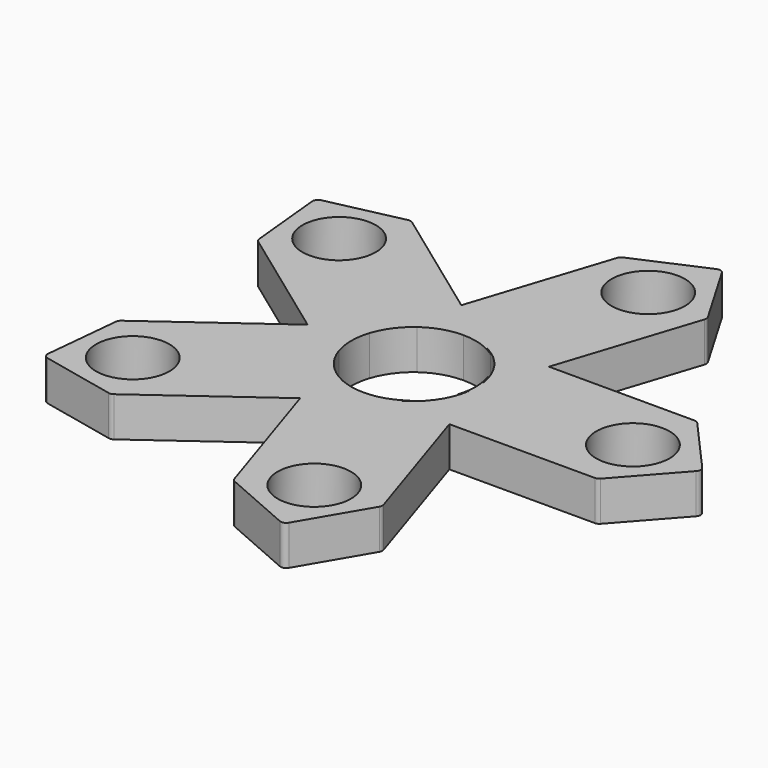
from build123d import *

# Parameters (mm, degrees)
F0_R     = 6.45
F1_DEPTH = 7


with BuildPart() as f1:
    # F0 (on Top) → F1 (new body)
    with BuildSketch(Plane.XY):
        with BuildLine():
            ThreePointArc((4.8420579254, 10.0159922148), (9.0003140624, 6.5391109318), (11.0220528498, 1.5099589323))
            Line((11.0220528498, 1.5099589323), (11.5126682474, 0))
            Line((11.5126682474, 0), (15.0702783864, 10.9491981566))
            Line((15.0702783864, 10.9491981566), (3.557610139, 10.9491981566))
            Line((3.557610139, 10.9491981566), (4.8420579254, 10.0159922148))
        make_face()
        with BuildLine():
            Line((15.0702783864, 10.9491981566), (11.5126682474, 0))
            Line((11.5126682474, 0), (15.0702783864, -10.9491981566))
            Line((15.0702783864, -10.9491981566), (40.6806125224, -10.9491981566))
            ThreePointArc((40.6806125224, -10.9491981566), (41.0902684989, -10.8614382461), (41.4280217317, -10.6135621185))
            Line((41.4280217317, -10.6135621185), (50.2717563602, -0.6643639619))
            ThreePointArc((50.2717563602, -0.6643639619), (50.5243471509, 0), (50.2717563602, 0.6643639619))
            Line((50.2717563602, 0.6643639619), (41.4280217317, 10.6135621185))
            ThreePointArc((41.4280217317, 10.6135621185), (41.0902684989, 10.8614382461), (40.6806125224, 10.9491981566))
            Line((40.6806125224, 10.9491981566), (15.0702783864, 10.9491981566))
        make_face()
        with Locations((38.6029407382, 0)):
            Circle(F0_R, mode=Mode.SUBTRACT)
        with BuildLine():
            Line((-26.4755296714, -32.7695514784), (-5.7563341237, -17.7161747669))
            Line((-5.7563341237, -17.7161747669), (-9.3139442627, -6.7669766103))
            Line((-9.3139442627, -6.7669766103), (-18.6278885254, 0))
            Line((-18.6278885254, 0), (-39.3470840731, -15.0533767114))
            ThreePointArc((-39.3470840731, -15.0533767114), (-39.6269187388, -15.3651657119), (-39.7544689118, -15.7642280808))
            Line((-39.7544689118, -15.7642280808), (-41.0612085714, -29.0115152597))
            ThreePointArc((-41.0612085714, -29.0115152597), (-40.8750554748, -29.697466137), (-40.2802018935, -30.086478731))
            Line((-40.2802018935, -30.086478731), (-27.2774783367, -32.9373323303))
            ThreePointArc((-27.2774783367, -32.9373323303), (-26.8585322992, -32.9393419609), (-26.4755296714, -32.7695514784))
        make_face()
        with Locations((-31.2304350901, -22.690239261)):
            Circle(F0_R, mode=Mode.SUBTRACT)
        with BuildLine():
            Line((-5.7563341237, 17.7161747669), (3.557610139, 10.9491981566))
            Line((3.557610139, 10.9491981566), (15.0702783864, 10.9491981566))
            Line((15.0702783864, 10.9491981566), (22.9843068661, 35.3060733212))
            ThreePointArc((22.9843068661, 35.3060733212), (23.0274328899, 35.7227986108), (22.8960601724, 36.1206189597))
            Line((22.8960601724, 36.1206189597), (16.1666747276, 47.6059817172))
            ThreePointArc((16.1666747276, 47.6059817172), (15.6128818993, 48.0515095894), (14.9029793772, 48.0165812266))
            Line((14.9029793772, 48.0165812266), (2.7078653445, 42.6801610906))
            ThreePointArc((2.7078653445, 42.6801610906), (2.3677496493, 42.4355366136), (2.157694356, 42.0730499315))
            Line((2.157694356, 42.0730499315), (-5.7563341237, 17.7161747669))
        make_face()
        with Locations((11.928964721, 36.7135783372)):
            Circle(F0_R, mode=Mode.SUBTRACT)
        with BuildLine():
            ThreePointArc((4.8420579254, 10.0159922148), (9.0003140624, 6.5391109318), (11.0220528498, 1.5099589323))
            Line((11.0220528498, 1.5099589323), (11.5126682474, 0))
            Line((11.5126682474, 0), (15.0702783864, 10.9491981566))
            Line((15.0702783864, 10.9491981566), (3.557610139, 10.9491981566))
            Line((3.557610139, 10.9491981566), (4.8420579254, 10.0159922148))
        make_face()
        with BuildLine():
            ThreePointArc((1.9699453616, 10.9491981566), (3.4378140624, 10.5805037438), (4.8420579254, 10.0159922148))
            Line((4.8420579254, 10.0159922148), (3.557610139, 10.9491981566))
            Line((3.557610139, 10.9491981566), (1.9699453616, 10.9491981566))
        make_face()
        with BuildLine():
            ThreePointArc((-8.0294964764, 7.7001825521), (-3.4378140624, 10.5805037438), (1.9699453616, 10.9491981566))
            Line((1.9699453616, 10.9491981566), (3.557610139, 10.9491981566))
            Line((3.557610139, 10.9491981566), (-5.7563341237, 17.7161747669))
            Line((-5.7563341237, 17.7161747669), (-9.3139442627, 6.7669766103))
            Line((-9.3139442627, 6.7669766103), (-8.0294964764, 7.7001825521))
        make_face()
        with BuildLine():
            ThreePointArc((-9.8045596603, 5.257017678), (-9.0003140624, 6.5391109318), (-8.0294964764, 7.7001825521))
            Line((-8.0294964764, 7.7001825521), (-9.3139442627, 6.7669766103))
            Line((-9.3139442627, 6.7669766103), (-9.8045596603, 5.257017678))
        make_face()
        with BuildLine():
            ThreePointArc((-9.8045596603, -5.257017678), (-11.125, 0), (-9.8045596603, 5.257017678))
            Line((-9.8045596603, 5.257017678), (-9.3139442627, 6.7669766103))
            Line((-9.3139442627, 6.7669766103), (-18.6278885254, 0))
            Line((-18.6278885254, 0), (-9.3139442627, -6.7669766103))
            Line((-9.3139442627, -6.7669766103), (-9.8045596603, -5.257017678))
        make_face()
        with BuildLine():
            Line((-9.3139442627, -6.7669766103), (-8.0294964764, -7.7001825521))
            ThreePointArc((-8.0294964764, -7.7001825521), (-9.0003140624, -6.5391109318), (-9.8045596603, -5.257017678))
            Line((-9.8045596603, -5.257017678), (-9.3139442627, -6.7669766103))
        make_face()
        with BuildLine():
            Line((3.557610139, -10.9491981566), (1.9699453616, -10.9491981566))
            ThreePointArc((1.9699453616, -10.9491981566), (-3.4378140624, -10.5805037438), (-8.0294964764, -7.7001825521))
            Line((-8.0294964764, -7.7001825521), (-9.3139442627, -6.7669766103))
            Line((-9.3139442627, -6.7669766103), (-5.7563341237, -17.7161747669))
            Line((-5.7563341237, -17.7161747669), (3.557610139, -10.9491981566))
        make_face()
        with BuildLine():
            Line((3.557610139, -10.9491981566), (4.8420579254, -10.0159922148))
            ThreePointArc((4.8420579254, -10.0159922148), (3.4378140624, -10.5805037438), (1.9699453616, -10.9491981566))
            Line((1.9699453616, -10.9491981566), (3.557610139, -10.9491981566))
        make_face()
        with BuildLine():
            Line((11.5126682474, 0), (11.0220528498, -1.5099589323))
            ThreePointArc((11.0220528498, -1.5099589323), (9.0003140624, -6.5391109318), (4.8420579254, -10.0159922148))
            Line((4.8420579254, -10.0159922148), (3.557610139, -10.9491981566))
            Line((3.557610139, -10.9491981566), (15.0702783864, -10.9491981566))
            Line((15.0702783864, -10.9491981566), (11.5126682474, 0))
        make_face()
        with BuildLine():
            ThreePointArc((11.0220528498, 1.5099589323), (11.0992333734, 0.7567321344), (11.125, 0))
            ThreePointArc((11.125, 0), (11.0992333734, -0.7567321344), (11.0220528498, -1.5099589323))
            Line((11.0220528498, -1.5099589323), (11.5126682474, 0))
            Line((11.5126682474, 0), (11.0220528498, 1.5099589323))
        make_face()
        with BuildLine():
            Line((0, 10.9491981566), (1.9699453616, 10.9491981566))
            ThreePointArc((1.9699453616, 10.9491981566), (-3.4378140624, 10.5805037438), (-8.0294964764, 7.7001825521))
            Line((-8.0294964764, 7.7001825521), (-6.4357772009, 8.8580873835))
            ThreePointArc((-6.4357772009, 8.8580873835), (-3.3834883052, 10.413306255), (0, 10.9491981566))
        make_face()
        with BuildLine():
            ThreePointArc((-8.0294964764, -7.7001825521), (-3.4378140624, -10.5805037438), (1.9699453616, -10.9491981566))
            Line((1.9699453616, -10.9491981566), (0, -10.9491981566))
            ThreePointArc((0, -10.9491981566), (-3.3834883052, -10.413306255), (-6.4357772009, -8.8580873835))
            Line((-6.4357772009, -8.8580873835), (-8.0294964764, -7.7001825521))
        make_face()
        with BuildLine():
            Line((22.9843068661, -35.3060733212), (15.0702783864, -10.9491981566))
            Line((15.0702783864, -10.9491981566), (3.557610139, -10.9491981566))
            Line((3.557610139, -10.9491981566), (-5.7563341237, -17.7161747669))
            Line((-5.7563341237, -17.7161747669), (2.157694356, -42.0730499315))
            ThreePointArc((2.157694356, -42.0730499315), (2.3677496493, -42.4355366136), (2.7078653445, -42.6801610906))
            Line((2.7078653445, -42.6801610906), (14.9029793772, -48.0165812266))
            ThreePointArc((14.9029793772, -48.0165812266), (15.6128818993, -48.0515095894), (16.1666747276, -47.6059817172))
            Line((16.1666747276, -47.6059817172), (22.8960601724, -36.1206189597))
            ThreePointArc((22.8960601724, -36.1206189597), (23.0274328899, -35.7227986108), (22.9843068661, -35.3060733212))
        make_face()
        with Locations((11.928964721, -36.7135783372)):
            Circle(F0_R, mode=Mode.SUBTRACT)
        with BuildLine():
            Line((-9.3139442627, 6.7669766103), (-5.7563341237, 17.7161747669))
            Line((-5.7563341237, 17.7161747669), (-26.4755296714, 32.7695514784))
            ThreePointArc((-26.4755296714, 32.7695514784), (-26.8585322992, 32.9393419609), (-27.2774783367, 32.9373323303))
            Line((-27.2774783367, 32.9373323303), (-40.2802018935, 30.086478731))
            ThreePointArc((-40.2802018935, 30.086478731), (-40.8750554748, 29.697466137), (-41.0612085714, 29.0115152597))
            Line((-41.0612085714, 29.0115152597), (-39.7544689118, 15.7642280808))
            ThreePointArc((-39.7544689118, 15.7642280808), (-39.6269187388, 15.3651657119), (-39.3470840731, 15.0533767114))
            Line((-39.3470840731, 15.0533767114), (-18.6278885254, 0))
            Line((-18.6278885254, 0), (-9.3139442627, 6.7669766103))
        make_face()
        with Locations((-31.2304350901, 22.690239261)):
            Circle(F0_R, mode=Mode.SUBTRACT)
        with BuildLine():
            Line((-10.413306255, 3.3834883052), (-9.8045596603, 5.257017678))
            ThreePointArc((-9.8045596603, 5.257017678), (-11.125, 0), (-9.8045596603, -5.257017678))
            Line((-9.8045596603, -5.257017678), (-10.413306255, -3.3834883052))
            ThreePointArc((-10.413306255, -3.3834883052), (-10.9491981566, 0), (-10.413306255, 3.3834883052))
        make_face()
        with BuildLine():
            Line((11.5126682474, 0), (11.0220528498, -1.5099589323))
            ThreePointArc((11.0220528498, -1.5099589323), (9.0003140624, -6.5391109318), (4.8420579254, -10.0159922148))
            Line((4.8420579254, -10.0159922148), (3.557610139, -10.9491981566))
            Line((3.557610139, -10.9491981566), (15.0702783864, -10.9491981566))
            Line((15.0702783864, -10.9491981566), (11.5126682474, 0))
        make_face()
        with BuildLine():
            Line((-6.4357772009, 8.8580873835), (-8.0294964764, 7.7001825521))
            ThreePointArc((-8.0294964764, 7.7001825521), (-9.0003140624, 6.5391109318), (-9.8045596603, 5.257017678))
            Line((-9.8045596603, 5.257017678), (-10.413306255, 3.3834883052))
            ThreePointArc((-10.413306255, 3.3834883052), (-8.8580873835, 6.4357772009), (-6.4357772009, 8.8580873835))
        make_face()
        with BuildLine():
            ThreePointArc((11.0220528498, -1.5099589323), (11.0992333734, -0.7567321344), (11.125, 0))
            ThreePointArc((11.125, 0), (11.0992333734, 0.7567321344), (11.0220528498, 1.5099589323))
            Line((11.0220528498, 1.5099589323), (10.413306255, 3.3834883052))
            ThreePointArc((10.413306255, 3.3834883052), (10.8143953581, 1.7128319562), (10.9491981566, 0))
            ThreePointArc((10.9491981566, 0), (10.8143953581, -1.7128319562), (10.413306255, -3.3834883052))
            Line((10.413306255, -3.3834883052), (11.0220528498, -1.5099589323))
        make_face()
        with BuildLine():
            ThreePointArc((1.9699453616, -10.9491981566), (3.4378140624, -10.5805037438), (4.8420579254, -10.0159922148))
            Line((4.8420579254, -10.0159922148), (6.4357772009, -8.8580873835))
            ThreePointArc((6.4357772009, -8.8580873835), (3.3834883052, -10.413306255), (0, -10.9491981566))
            Line((0, -10.9491981566), (1.9699453616, -10.9491981566))
        make_face()
        with BuildLine():
            ThreePointArc((-9.8045596603, -5.257017678), (-9.0003140624, -6.5391109318), (-8.0294964764, -7.7001825521))
            Line((-8.0294964764, -7.7001825521), (-6.4357772009, -8.8580873835))
            ThreePointArc((-6.4357772009, -8.8580873835), (-8.8580873835, -6.4357772009), (-10.413306255, -3.3834883052))
            Line((-10.413306255, -3.3834883052), (-9.8045596603, -5.257017678))
        make_face()
        with BuildLine():
            Line((6.4357772009, 8.8580873835), (4.8420579254, 10.0159922148))
            ThreePointArc((4.8420579254, 10.0159922148), (3.4378140624, 10.5805037438), (1.9699453616, 10.9491981566))
            Line((1.9699453616, 10.9491981566), (0, 10.9491981566))
            ThreePointArc((0, 10.9491981566), (3.3834883052, 10.413306255), (6.4357772009, 8.8580873835))
        make_face()
        with BuildLine():
            ThreePointArc((-9.8045596603, -5.257017678), (-11.125, 0), (-9.8045596603, 5.257017678))
            Line((-9.8045596603, 5.257017678), (-9.3139442627, 6.7669766103))
            Line((-9.3139442627, 6.7669766103), (-18.6278885254, 0))
            Line((-18.6278885254, 0), (-9.3139442627, -6.7669766103))
            Line((-9.3139442627, -6.7669766103), (-9.8045596603, -5.257017678))
        make_face()
        with BuildLine():
            ThreePointArc((-8.0294964764, 7.7001825521), (-3.4378140624, 10.5805037438), (1.9699453616, 10.9491981566))
            Line((1.9699453616, 10.9491981566), (3.557610139, 10.9491981566))
            Line((3.557610139, 10.9491981566), (-5.7563341237, 17.7161747669))
            Line((-5.7563341237, 17.7161747669), (-9.3139442627, 6.7669766103))
            Line((-9.3139442627, 6.7669766103), (-8.0294964764, 7.7001825521))
        make_face()
        with BuildLine():
            Line((3.557610139, -10.9491981566), (1.9699453616, -10.9491981566))
            ThreePointArc((1.9699453616, -10.9491981566), (-3.4378140624, -10.5805037438), (-8.0294964764, -7.7001825521))
            Line((-8.0294964764, -7.7001825521), (-9.3139442627, -6.7669766103))
            Line((-9.3139442627, -6.7669766103), (-5.7563341237, -17.7161747669))
            Line((-5.7563341237, -17.7161747669), (3.557610139, -10.9491981566))
        make_face()
    extrude(amount=F1_DEPTH)


solid = f1.part
